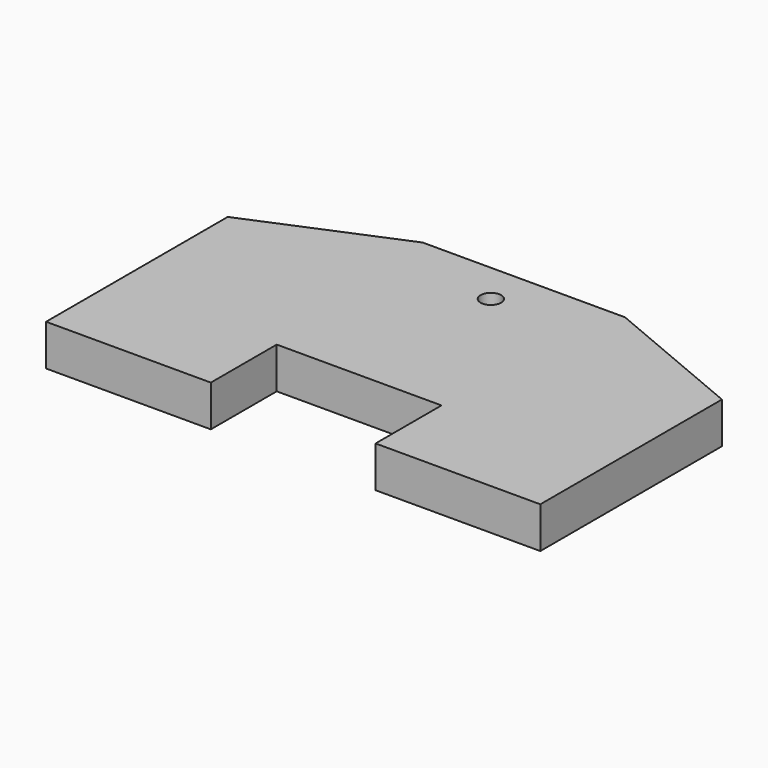
from build123d import *

# Parameters (mm, degrees)
F1_DEPTH       = 12.7
F3_D           = 6.35
F3_CBORE_D     = 15.24
F3_CBORE_DEPTH = 3.81


with BuildPart() as f1:
    # F0 (on Top) → F1 (new body)
    with BuildSketch(Plane.XY):
        Polygon((31.2, 44.45), (-31.2, 44.45), (-76.2, 25.55), (-76.2, -44.45), (-25.4, -44.45), (-25.4, -19.05), (0, -19.05), (25.4, -19.05), (25.4, -44.45), (76.2, -44.45), (76.2, 25.55), align=None)
    extrude(amount=F1_DEPTH)

    # F3 (through all)
    with Locations(Plane(origin=(0, 0, 0), x_dir=(1, 0, 0), z_dir=(0, 0, -1))):
        with Locations((0, -31.75)):
            CounterBoreHole(F3_D / 2, F3_CBORE_D / 2, F3_CBORE_DEPTH)


solid = f1.part
